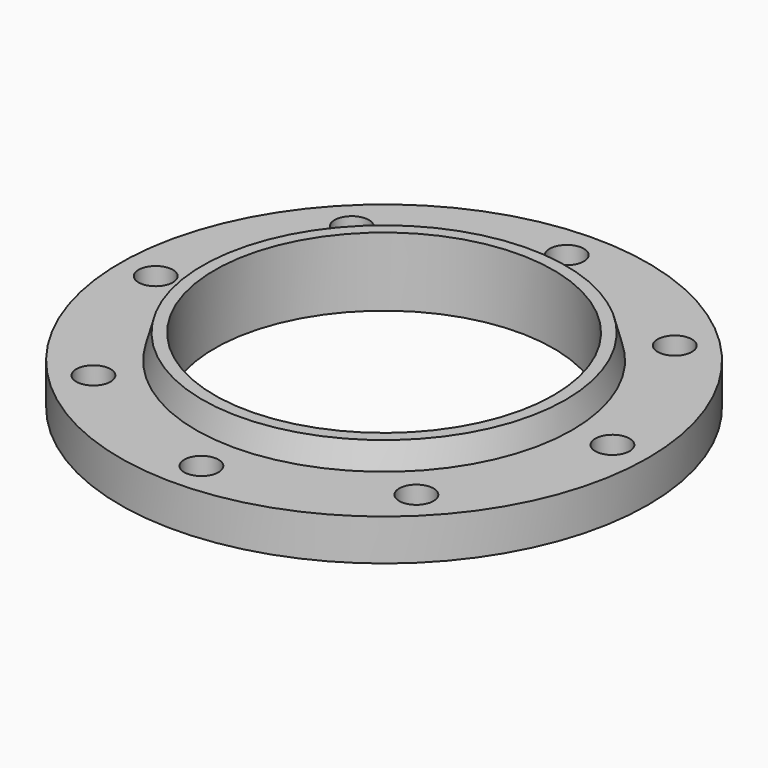
from build123d import *

# Parameters (mm, degrees)
F2_R     = 11.2
F3_DEPTH = 29.001


with BuildPart() as f1:
    # F0 (on Front) → F1 (revolve)
    with BuildSketch(Plane.XZ):
        Polygon((110.75, 45), (110.75, 0), (134.95, 0), (134.95, 2), (172.5, 2), (172.5, 29), (123, 29), (118.712813, 45), align=None)
    revolve(axis=Axis((0, 0, 22.5), (0, 0, 1)))

    # F2 (on face) → F3 (cut, through all)
    with BuildSketch(Plane.XY.offset(29)):
        with Locations((0, 149.25)):
            Circle(F2_R)
        with Locations((-105.535687, 105.535687)):
            Circle(F2_R)
        with Locations((-149.25, 0)):
            Circle(F2_R)
        with Locations((-105.535687, -105.535687)):
            Circle(F2_R)
        with Locations((0, -149.25)):
            Circle(F2_R)
        with Locations((105.535687, -105.535687)):
            Circle(F2_R)
        with Locations((149.25, 0)):
            Circle(F2_R)
        with Locations((105.535687, 105.535687)):
            Circle(F2_R)
    extrude(amount=-F3_DEPTH, mode=Mode.SUBTRACT)


solid = f1.part
